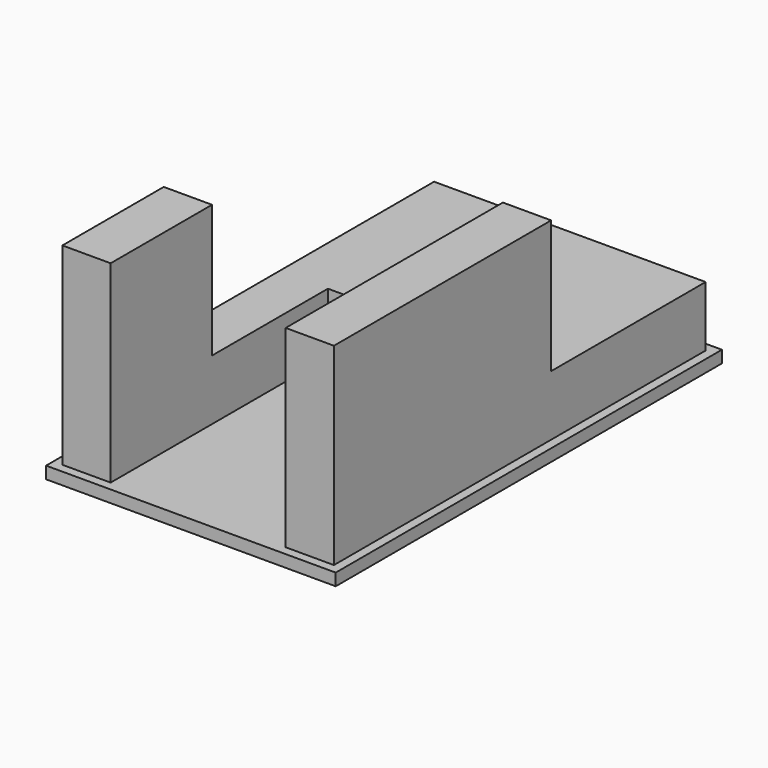
from build123d import *

# Parameters (mm, degrees)
F0_W     = 3657.6
F0_H     = 6096
F1_DEPTH = 152.4
F2_W     = 609.6
F2_H     = 1828.8
F3_DEPTH = 762
F2_H_2   = 1600.2
F2_H_3   = 3429
F4_DEPTH = 2438.4


with BuildPart() as f1:
    # F0 (on Top) → F1 (new body)
    with BuildSketch(Plane.XY):
        with Locations((1828.8, 3048)):
            Rectangle(F0_W, F0_H)
    extrude(amount=F1_DEPTH)

    # F2 (on face) → F3 (join)
    with BuildSketch(Plane.XY.offset(152.4)):
        Polygon((3543.3, 5981.7), (114.3, 5981.7), (114.3, 3543.3), (723.9, 3543.3), (2933.7, 3543.3), (3543.3, 3543.3), align=None)
        with Locations((419.1, 2628.9)):
            Rectangle(F2_W, F2_H)
    extrude(amount=F3_DEPTH)

    # F2 (on face) → F4 (join)
    with BuildSketch(Plane.XY.offset(152.4)):
        with Locations((419.1, 914.4)):
            Rectangle(F2_W, F2_H_2)
        with Locations((3238.5, 1828.8)):
            Rectangle(F2_W, F2_H_3)
    extrude(amount=F4_DEPTH)


solid = f1.part
